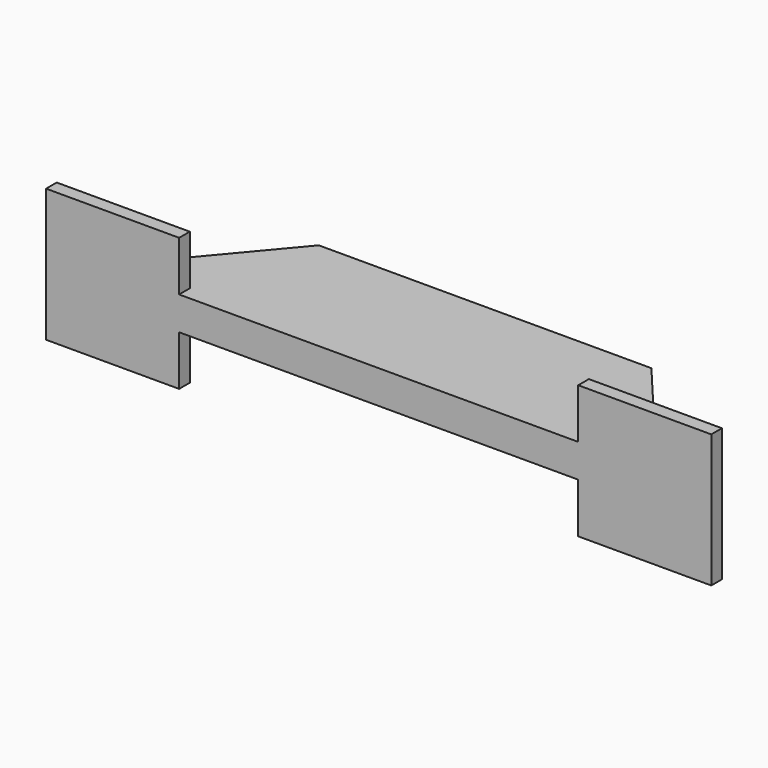
from build123d import *

# Parameters (mm, degrees)
PAD_DEPTH    = 2.5
SKETCH001_W  = 20
SKETCH001_H  = 2
PAD001_DEPTH = 10


with BuildPart() as part:
    # Sketch → Pad (new body, symmetric)
    with BuildSketch(Plane.XY):
        Polygon((-50, 0), (50, 0), (50, 2), (40.103793, 2), (25, 20), (-25, 20), (-40.103793, 2), (-50, 2), align=None)
    extrude(amount=PAD_DEPTH, both=True)

    # Sketch001 → Pad001 (join, symmetric)
    with BuildSketch(Plane.XY):
        with Locations((-40, 1)):
            Rectangle(SKETCH001_W, SKETCH001_H)
        with Locations((40, 1)):
            Rectangle(SKETCH001_W, SKETCH001_H)
    extrude(amount=PAD001_DEPTH, both=True)


solid = part.part
